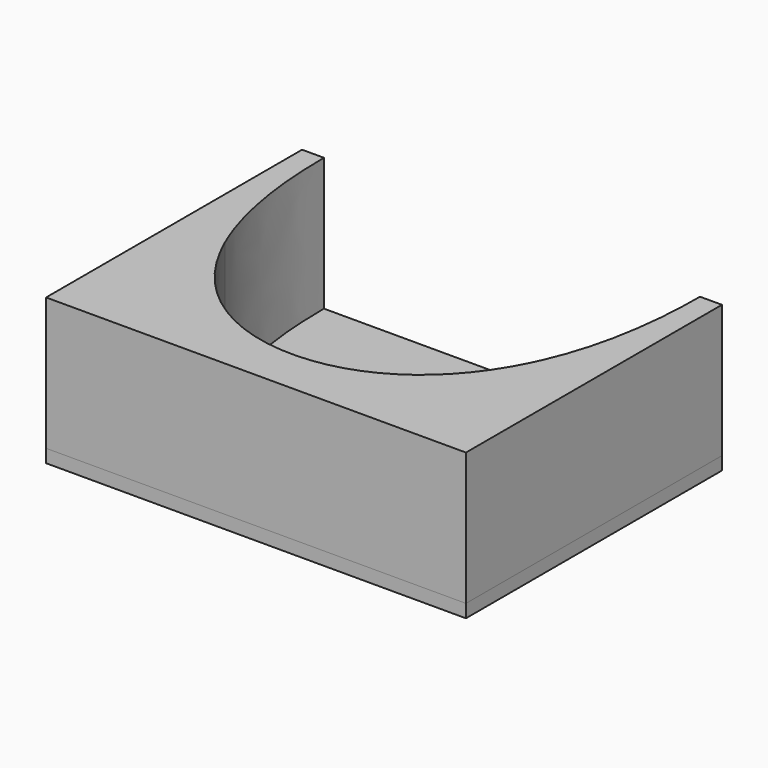
from build123d import *

# Parameters (mm, degrees)
F1_DEPTH = 200
F0_R     = 140
F2_DEPTH = 18


with BuildPart() as f1:
    # F0 (on Top) → F1 (new body)
    with BuildSketch(Plane.XY):
        with BuildLine():
            add(Edge.make_bspline(
                [(-184.86393, 219.260138), (-184.86393, 128.841125), (-169.935384, 56.325017), (-145.159642, 0)],
                knots=[0, 0, 0, 0, 155.370781, 155.370781, 155.370781, 155.370781], degree=3))
            Line((-184.86393, 219.260138), (-214.86393, 219.260138))
            Line((-214.86393, 219.260138), (-214.86393, -219.260138))
            Line((-214.86393, -219.260138), (-184.86393, -219.260138))
            add(Edge.make_bspline(
                [(-184.86393, -219.260138), (-184.86393, -128.841125), (-169.935384, -56.325017), (-145.159642, 0)],
                knots=[0, 0, 0, 0, 155.370781, 155.370781, 155.370781, 155.370781], degree=3))
        make_face()
        with BuildLine():
            add(Edge.make_bspline(
                [(-145.159642, 0), (-97.146516, -109.152744), (72.84183, -205.847256), (242.830176, -109.152744), (290.843302, 0)],
                knots=[155.370781, 155.370781, 155.370781, 155.370781, 456.465179, 757.559578, 757.559578, 757.559578, 757.559578], degree=3))
            add(Edge.make_bspline(
                [(-184.86393, -219.260138), (-184.86393, -128.841125), (-169.935384, -56.325017), (-145.159642, 0)],
                knots=[0, 0, 0, 0, 155.370781, 155.370781, 155.370781, 155.370781], degree=3))
            Line((-184.86393, -219.260138), (330.54759, -219.260138))
            add(Edge.make_bspline(
                [(290.843302, 0), (315.619044, -56.325017), (330.54759, -128.841125), (330.54759, -219.260138)],
                knots=[757.559578, 757.559578, 757.559578, 757.559578, 912.930359, 912.930359, 912.930359, 912.930359], degree=3))
        make_face()
        with BuildLine():
            Line((360.54759, 219.260138), (330.54759, 219.260138))
            add(Edge.make_bspline(
                [(290.843302, 0), (315.619044, 56.325017), (330.54759, 128.841125), (330.54759, 219.260138)],
                knots=[757.559578, 757.559578, 757.559578, 757.559578, 912.930359, 912.930359, 912.930359, 912.930359], degree=3))
            add(Edge.make_bspline(
                [(290.843302, 0), (315.619044, -56.325017), (330.54759, -128.841125), (330.54759, -219.260138)],
                knots=[757.559578, 757.559578, 757.559578, 757.559578, 912.930359, 912.930359, 912.930359, 912.930359], degree=3))
            Line((330.54759, -219.260138), (360.54759, -219.260138))
            Line((360.54759, -219.260138), (360.54759, 219.260138))
        make_face()
    extrude(amount=F1_DEPTH)


with BuildPart() as f2:
    # F0 (on Top) → F2 (new body)
    with BuildSketch(Plane.XY):
        with BuildLine():
            add(Edge.make_bspline(
                [(-145.159642, 0), (-97.146516, -109.152744), (72.84183, -205.847256), (242.830176, -109.152744), (290.843302, 0)],
                knots=[155.370781, 155.370781, 155.370781, 155.370781, 456.465179, 757.559578, 757.559578, 757.559578, 757.559578], degree=3))
            add(Edge.make_bspline(
                [(-184.86393, -219.260138), (-184.86393, -128.841125), (-169.935384, -56.325017), (-145.159642, 0)],
                knots=[0, 0, 0, 0, 155.370781, 155.370781, 155.370781, 155.370781], degree=3))
            Line((-184.86393, -219.260138), (330.54759, -219.260138))
            add(Edge.make_bspline(
                [(290.843302, 0), (315.619044, -56.325017), (330.54759, -128.841125), (330.54759, -219.260138)],
                knots=[757.559578, 757.559578, 757.559578, 757.559578, 912.930359, 912.930359, 912.930359, 912.930359], degree=3))
        make_face()
        with BuildLine():
            Line((360.54759, 219.260138), (330.54759, 219.260138))
            add(Edge.make_bspline(
                [(290.843302, 0), (315.619044, 56.325017), (330.54759, 128.841125), (330.54759, 219.260138)],
                knots=[757.559578, 757.559578, 757.559578, 757.559578, 912.930359, 912.930359, 912.930359, 912.930359], degree=3))
            add(Edge.make_bspline(
                [(290.843302, 0), (315.619044, -56.325017), (330.54759, -128.841125), (330.54759, -219.260138)],
                knots=[757.559578, 757.559578, 757.559578, 757.559578, 912.930359, 912.930359, 912.930359, 912.930359], degree=3))
            Line((330.54759, -219.260138), (360.54759, -219.260138))
            Line((360.54759, -219.260138), (360.54759, 219.260138))
        make_face()
        with BuildLine():
            add(Edge.make_bspline(
                [(-184.86393, 219.260138), (-184.86393, 128.841125), (-169.935384, 56.325017), (-145.159642, 0)],
                knots=[0, 0, 0, 0, 155.370781, 155.370781, 155.370781, 155.370781], degree=3))
            Line((-184.86393, 219.260138), (-214.86393, 219.260138))
            Line((-214.86393, 219.260138), (-214.86393, -219.260138))
            Line((-214.86393, -219.260138), (-184.86393, -219.260138))
            add(Edge.make_bspline(
                [(-184.86393, -219.260138), (-184.86393, -128.841125), (-169.935384, -56.325017), (-145.159642, 0)],
                knots=[0, 0, 0, 0, 155.370781, 155.370781, 155.370781, 155.370781], degree=3))
        make_face()
        with BuildLine():
            add(Edge.make_bspline(
                [(-145.159642, 0), (-97.146516, 109.152744), (72.84183, 205.847256), (242.830176, 109.152744), (290.843302, 0)],
                knots=[155.370781, 155.370781, 155.370781, 155.370781, 456.465179, 757.559578, 757.559578, 757.559578, 757.559578], degree=3))
            add(Edge.make_bspline(
                [(-145.159642, 0), (-97.146516, -109.152744), (72.84183, -205.847256), (242.830176, -109.152744), (290.843302, 0)],
                knots=[155.370781, 155.370781, 155.370781, 155.370781, 456.465179, 757.559578, 757.559578, 757.559578, 757.559578], degree=3))
        make_face()
        with Locations((72.84183, 0)):
            Circle(F0_R, mode=Mode.SUBTRACT)
        with BuildLine():
            Line((330.54759, 219.260138), (-184.86393, 219.260138))
            add(Edge.make_bspline(
                [(-184.86393, 219.260138), (-184.86393, 128.841125), (-169.935384, 56.325017), (-145.159642, 0)],
                knots=[0, 0, 0, 0, 155.370781, 155.370781, 155.370781, 155.370781], degree=3))
            add(Edge.make_bspline(
                [(-145.159642, 0), (-97.146516, 109.152744), (72.84183, 205.847256), (242.830176, 109.152744), (290.843302, 0)],
                knots=[155.370781, 155.370781, 155.370781, 155.370781, 456.465179, 757.559578, 757.559578, 757.559578, 757.559578], degree=3))
            add(Edge.make_bspline(
                [(290.843302, 0), (315.619044, 56.325017), (330.54759, 128.841125), (330.54759, 219.260138)],
                knots=[757.559578, 757.559578, 757.559578, 757.559578, 912.930359, 912.930359, 912.930359, 912.930359], degree=3))
        make_face()
    extrude(amount=F2_DEPTH)


solid = Compound([f1.part, f2.part])
